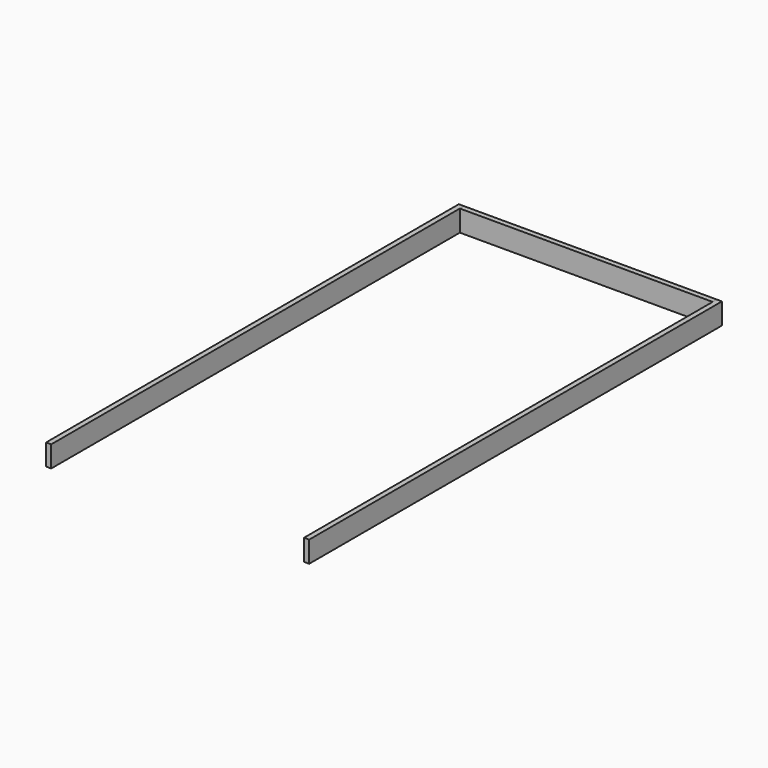
from build123d import *

# Parameters (mm, degrees)
F1_DEPTH = 198
F0_W     = 2352
F0_H     = 48
F2_DEPTH = 198
F3_DEPTH = 198


with BuildPart() as f1:
    # F0 (on Top) → F1 (new body)
    with BuildSketch(Plane.XY):
        Polygon((0, 4800), (0, 0), (48, 0), (48, 4752), (48, 4800), align=None)
    extrude(amount=F1_DEPTH)


with BuildPart() as f2:
    # F0 (on Top) → F2 (new body)
    with BuildSketch(Plane.XY):
        with Locations((1224, 4776)):
            Rectangle(F0_W, F0_H)
    extrude(amount=F2_DEPTH)


with BuildPart() as f3:
    # F0 (on Top) → F3 (new body)
    with BuildSketch(Plane.XY):
        Polygon((2400, 4800), (2400, 4752), (2400, 0), (2448, 0), (2448, 4800), align=None)
    extrude(amount=F3_DEPTH)


solid = Compound([f1.part, f2.part, f3.part])
